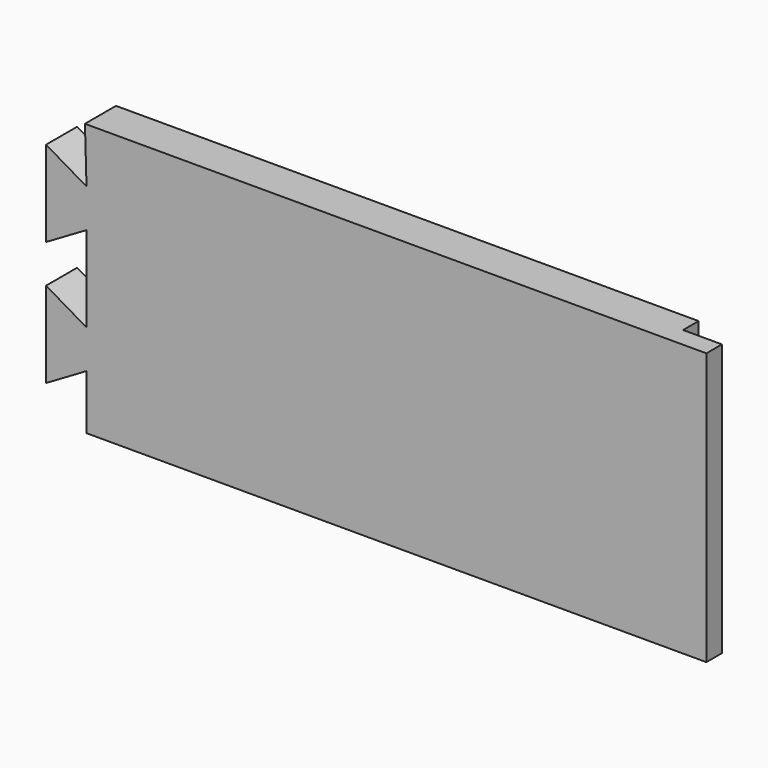
from build123d import *

# Parameters (mm, degrees)
F0_W     = 340
F0_H     = 140
F1_DEPTH = 20
F4_DEPTH = 20
F2_W     = 10
F2_H     = 140
F5_DEPTH = 20


with BuildPart() as f1:
    # F0 (on Front) → F1 (new body)
    with BuildSketch(Plane.XZ):
        Rectangle(F0_W, F0_H)
    extrude(amount=F1_DEPTH)

    # F3 (on face) → F4 (cut)
    with BuildSketch(Plane(origin=(0, 0, 0), x_dir=(-1, 0, 0), z_dir=(0, 1, 0))):
        Polygon((149.1751, -41.837405), (149.1751, -70), (150, -70), (170, -70), (170, -54.026762), align=None)
        Polygon((170, 54.026762), (170, 70), (150, 70), (149.1751, 41.837405), align=None)
        Polygon((170, 0), (170, 9.882683), (149.1751, 22.07204), (149.1751, -22.07204), (170, -9.882683), align=None)
    extrude(amount=-F4_DEPTH, mode=Mode.SUBTRACT)

    # F2 (on face) → F5 (cut)
    with BuildSketch(Plane.YZ.offset(170)):
        with Locations((-5, 0)):
            Rectangle(F2_W, F2_H)
    extrude(amount=-F5_DEPTH, mode=Mode.SUBTRACT)


solid = f1.part
